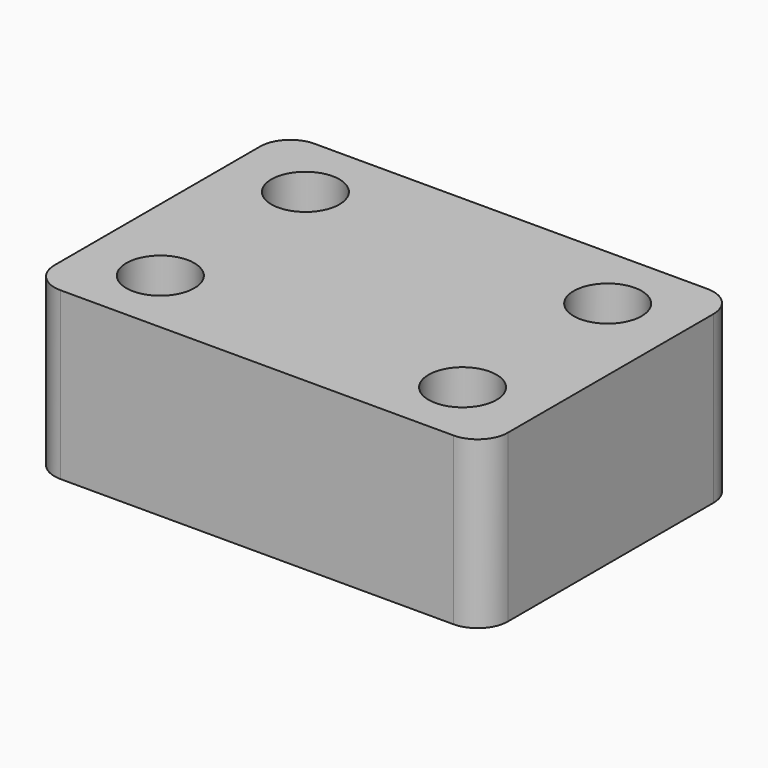
from build123d import *

# Parameters (mm, degrees)
F0_W     = 30
F0_H     = 21
F0_R     = 2.25
F1_DEPTH = 11
F2_R     = 2


with BuildPart() as f1:
    # F0 (on Top) → F1 (new body)
    with BuildSketch(Plane.XY):
        with Locations((15, 10.5)):
            Rectangle(F0_W, F0_H)
        with Locations((5, 4.5)):
            Circle(F0_R, mode=Mode.SUBTRACT)
        with Locations((25, 4.5)):
            Circle(F0_R, mode=Mode.SUBTRACT)
        with Locations((5, 16.5)):
            Circle(F0_R, mode=Mode.SUBTRACT)
        with Locations((25, 16.5)):
            Circle(F0_R, mode=Mode.SUBTRACT)
    extrude(amount=F1_DEPTH)

    # F2
    f2_edges = [f1.edges().sort_by_distance(p)[0] for p in [
        (30, 0, 5.5),
        (30, 21, 5.5),
        (0, 21, 5.5),
        (0, 0, 5.5),
    ]]
    fillet(f2_edges, radius=F2_R)


solid = f1.part
